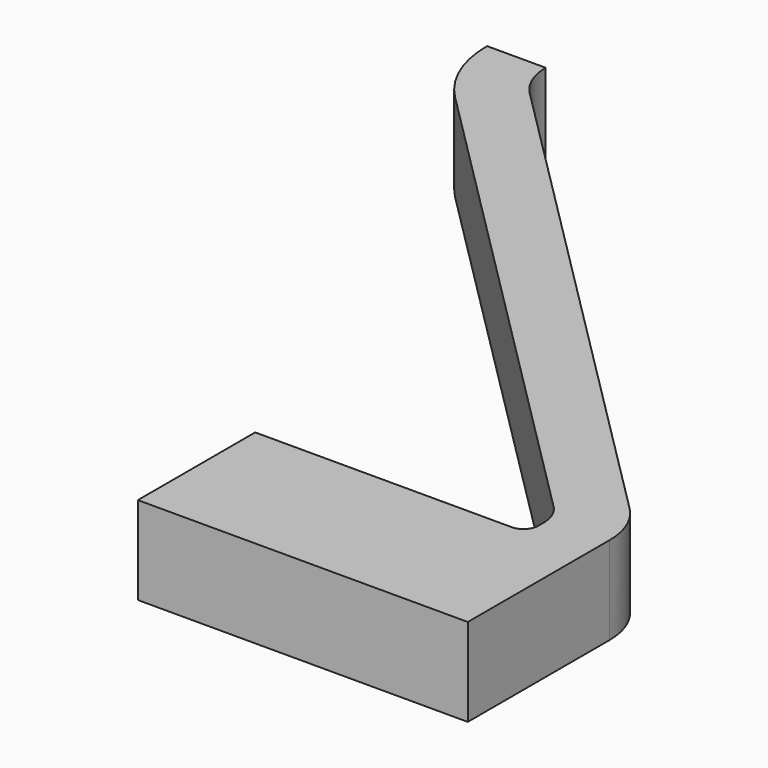
from build123d import *

# Parameters (mm, degrees)
F1_DEPTH = 12


with BuildPart() as f1:
    # F0 (on Top) → F1 (new body)
    with BuildSketch(Plane.XY):
        with BuildLine():
            Line((0, 20), (0, 0))
            Line((0, 0), (45, 0))
            Line((45, 0), (45, 24.171573))
            ThreePointArc((45, 24.171573), (44.238795, 27.998407), (42.071068, 31.242641))
            Line((42.071068, 31.242641), (-26.029437, 99.343146))
            ThreePointArc((-26.029437, 99.343146), (-27.763619, 101.938533), (-28.372583, 105))
            Line((-28.372583, 105), (-36.372583, 105))
            ThreePointArc((-36.372583, 105), (-35.154656, 98.877065), (-31.686292, 93.686292))
            Line((-31.686292, 93.686292), (35.535534, 26.464466))
            ThreePointArc((35.535534, 26.464466), (36.619398, 24.842349), (37, 22.928932))
            Line((37, 22.928932), (37, 22))
            ThreePointArc((37, 22), (36.414214, 20.585786), (35, 20))
            Line((35, 20), (0, 20))
        make_face()
    extrude(amount=-F1_DEPTH)


solid = f1.part
